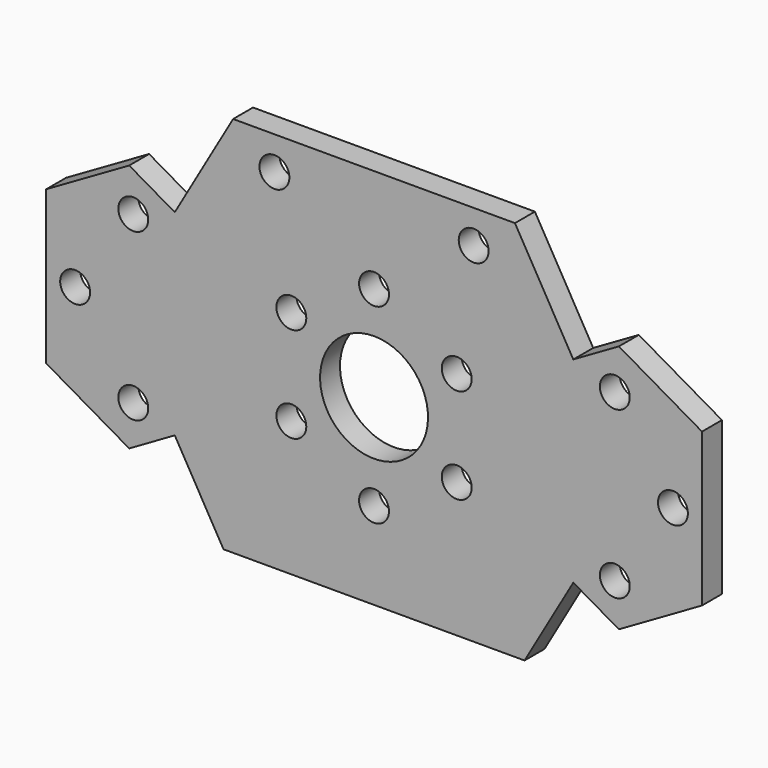
from build123d import *

# Parameters (mm, degrees)
SKETCH157_R  = 1.8
PAD122_DEPTH = 3


with BuildPart() as pad122:
    # Sketch157 → Pad122 (new body)
    with BuildSketch(Plane.XZ.offset(-30)):
        with BuildLine():
            Line((-29.490381, 15), (-39.5, 9.220944))
            Line((-39.5, 9.220944), (-39.5, -9.220944))
            Line((-39.5, -9.220944), (-29.490381, -15))
            Line((-24, -11.830127), (-29.490381, -15))
            Line((-24, -11.830127), (-18.128421, -22))
            Line((-18.128421, -22), (0, -22))
            Line((0, -13.3), (0, -22))
            ThreePointArc((0, -9.7), (-1.8, -11.5), (0, -13.3))
            Line((0, -6.5), (0, -9.7))
            ThreePointArc((0, 6.5), (-6.5, 0), (0, -6.5))
            Line((0, 9.7), (0, 6.5))
            ThreePointArc((0, 13.3), (-1.8, 11.5), (0, 9.7))
            Line((0, 13.3), (0, 24))
            Line((-16.973721, 24), (0, 24))
            Line((-24, 11.830127), (-16.973721, 24))
            Line((-29.490381, 15), (-24, 11.830127))
        make_face()
        with Locations((-29, 10)):
            Circle(SKETCH157_R, mode=Mode.SUBTRACT)
        with Locations((-29, -10)):
            Circle(SKETCH157_R, mode=Mode.SUBTRACT)
        with Locations((-12, 20)):
            Circle(SKETCH157_R, mode=Mode.SUBTRACT)
        with Locations((-9.959292, 5.75)):
            Circle(SKETCH157_R, mode=Mode.SUBTRACT)
        with Locations((-9.959292, -5.75)):
            Circle(SKETCH157_R, mode=Mode.SUBTRACT)
        with Locations((-36, 0)):
            Circle(SKETCH157_R, mode=Mode.SUBTRACT)
    extrude(amount=PAD122_DEPTH)


with BuildPart() as motorcageface:
    # Part__Mirroring008: instance of Pad122
    add(pad122.part.mirror(Plane(origin=(0, 0, 0), x_dir=(0, -1, 0), z_dir=(1, 0, 0))))

    # Fusion004020015: union Pad122
    add(pad122.part)


solid = motorcageface.part
